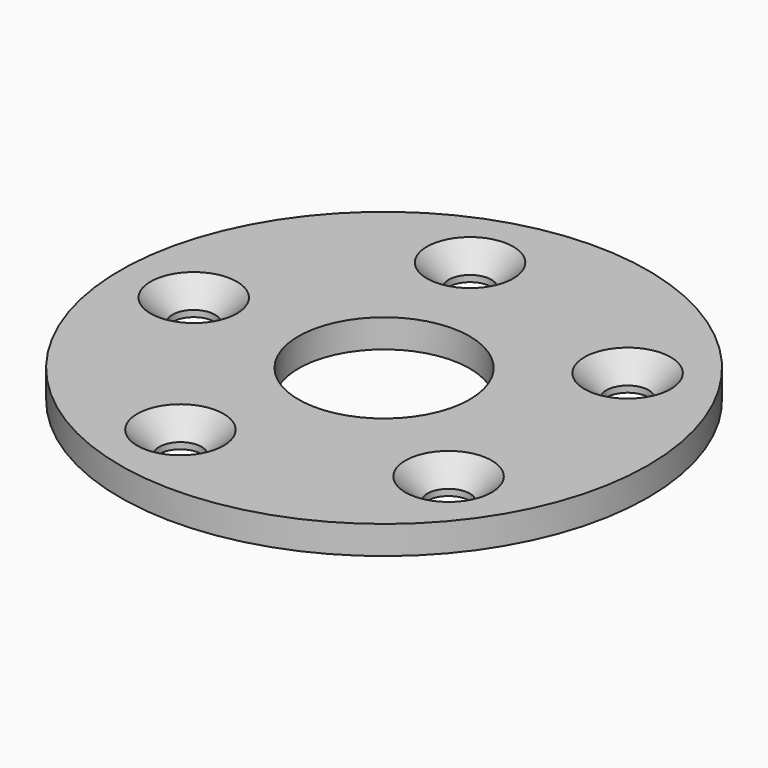
from build123d import *

# Parameters (mm, degrees)
SKETCH046_R           = 18.65
SKETCH046_R_2         = 6.05
PAD013_DEPTH          = 2
HOLE001_D             = 3
HOLE001_CSINK_D       = 6.1
HOLE001_CSINK_ANGLE   = 90
POLARPATTERN002_COUNT = 5


with BuildPart() as part:
    # Sketch046 → Pad013 (new body)
    with BuildSketch(Plane.XY.offset(20.5)):
        Circle(SKETCH046_R)
        Circle(SKETCH046_R_2, mode=Mode.SUBTRACT)
    extrude(amount=PAD013_DEPTH)

    # Hole001 (through all)
    with Locations(Plane.XY.offset(22.5)):
        with Locations((10.881279, 7.905712)):
            hole001 = CounterSinkHole(HOLE001_D / 2, HOLE001_CSINK_D / 2, counter_sink_angle=HOLE001_CSINK_ANGLE)

    # PolarPattern002: Hole001 ×5 about axis
    polarpattern002_axis = Axis((0, 0, 22.5), (0, 0, 1))
    for i in range(1, POLARPATTERN002_COUNT):
        add(hole001.rotate(polarpattern002_axis, i * 360 / POLARPATTERN002_COUNT), mode=Mode.SUBTRACT)


solid = part.part
